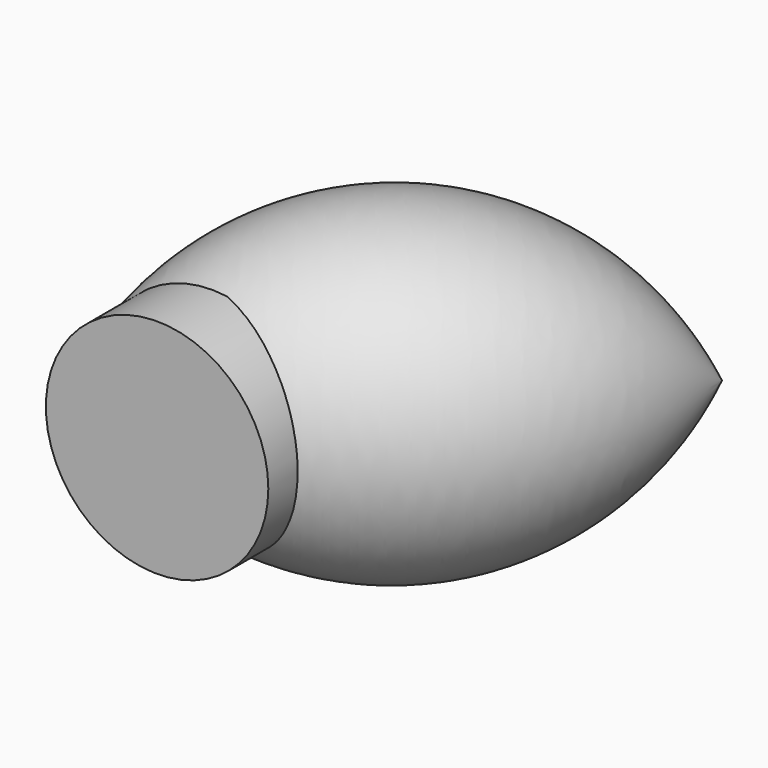
from build123d import *

# Parameters (mm, degrees)
REVOLVE_PLACEMENT_ANGLE = 310
SKETCH001_R             = 65
PAD_DEPTH               = 40


with BuildPart() as revolve_body:
    # Sketch → Revolve (revolve)
    with BuildSketch(Plane.XY):
        with BuildLine():
            ThreePointArc((0, 0), (92, 150), (0, 300))
            Line((0, 300), (0, 0))
        make_face()
    revolve(axis=Axis((0, 0, 0), (0, 1, 0)))


with BuildPart() as revolve_body_1:
    # Revolve placement: moved
    add(revolve_body.part.moved(Location((-5, 20, 0))).rotate(Axis((-5, 20, 0), (0, 0, 1)), REVOLVE_PLACEMENT_ANGLE))


with BuildPart() as revolve001:
    # Clone base: copy of Revolve body
    add(revolve_body_1.part)


with BuildPart() as cut:
    # Sketch001 → Pad (new body)
    with BuildSketch(Plane.XZ):
        with Locations((65, 0)):
            Circle(SKETCH001_R)
    extrude(amount=-PAD_DEPTH)

    # Cut: cut Revolve001
    add(revolve001.part, mode=Mode.SUBTRACT)


solid = Compound([revolve_body_1.part, cut.part])
